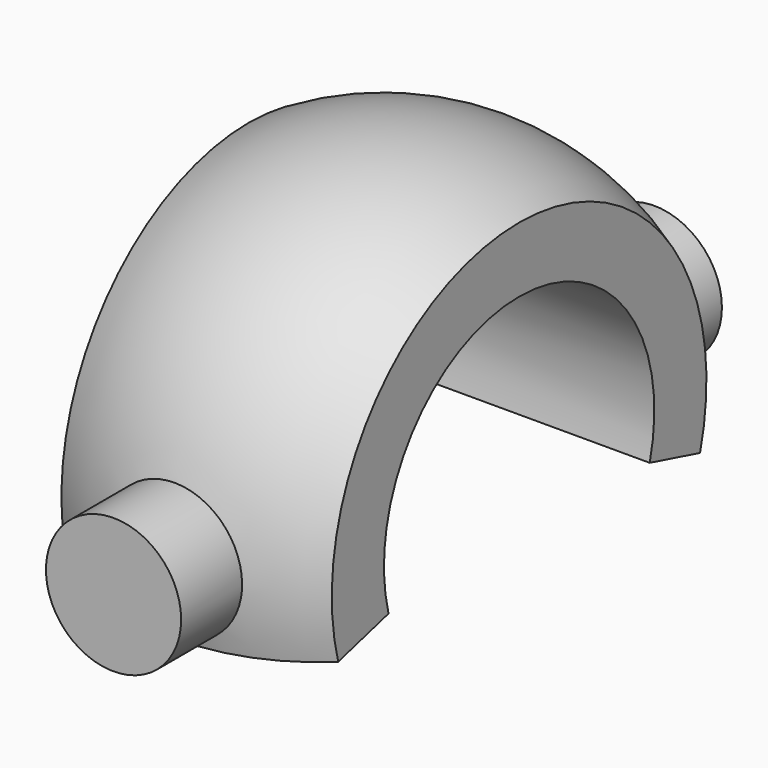
from build123d import *

# Parameters (mm, degrees)
F1_ANGLE_BACK = 105
F1_ANGLE      = 210
F3_R          = 20


with BuildPart() as f1:
    # F0 (on Front) → F1 (revolve)
    with BuildSketch(Plane.XZ, mode=Mode.PRIVATE) as f1_sk:
        with BuildLine():
            ThreePointArc((40, 69.2820323028), (0, 80), (-40, 69.2820323028))
            Line((-40, 69.2820323028), (-40, 50))
            Line((-40, 50), (40, 50))
            Line((40, 50), (40, 69.2820323028))
        make_face()
    revolve(f1_sk.sketch.rotate(Axis((-190.0887642899, 0, 0), (-1, 0, 0)), -F1_ANGLE_BACK), axis=Axis((-190.0887642899, 0, 0), (-1, 0, 0)), revolution_arc=F1_ANGLE)

    # F3 (on offset) → F4 (join, up to the next surface of F1)
    with BuildSketch(Plane.XZ.offset(-100)):
        Circle(F3_R)
    extrude(until=Until.NEXT)

    # F5: F1 across plane


with BuildPart() as f1_1:
    add(f1.part)
    add(f1.part.mirror(Plane.XZ))


solid = f1_1.part
